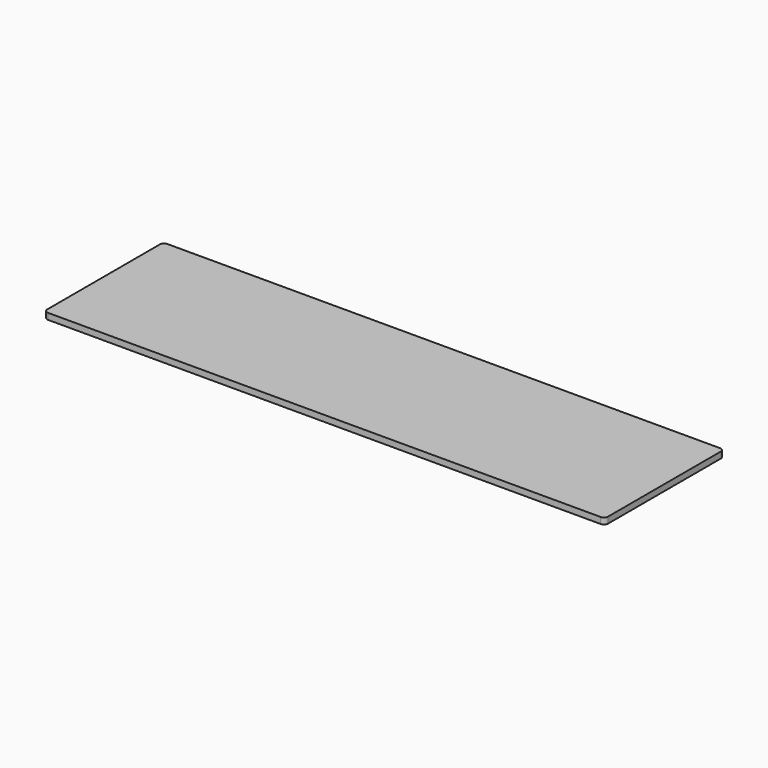
from build123d import *

# Parameters (mm, degrees)
F0_W     = 859.79
F0_H     = 228.6
F1_DEPTH = 9.525
F2_R     = 6.35


with BuildPart() as f1:
    # F0 (on Top) → F1 (new body)
    with BuildSketch(Plane.XY):
        with Locations((26.402018, 114.3)):
            Rectangle(F0_W, F0_H)
    extrude(amount=-F1_DEPTH)

    # F2
    f2_edges = [f1.edges().sort_by_distance(p)[0] for p in [
        (-403.492982, 228.6, -4.7625),
        (-403.492982, 0, -4.7625),
        (456.297018, 0, -4.7625),
        (456.297018, 228.6, -4.7625),
    ]]
    fillet(f2_edges, radius=F2_R)


solid = f1.part
